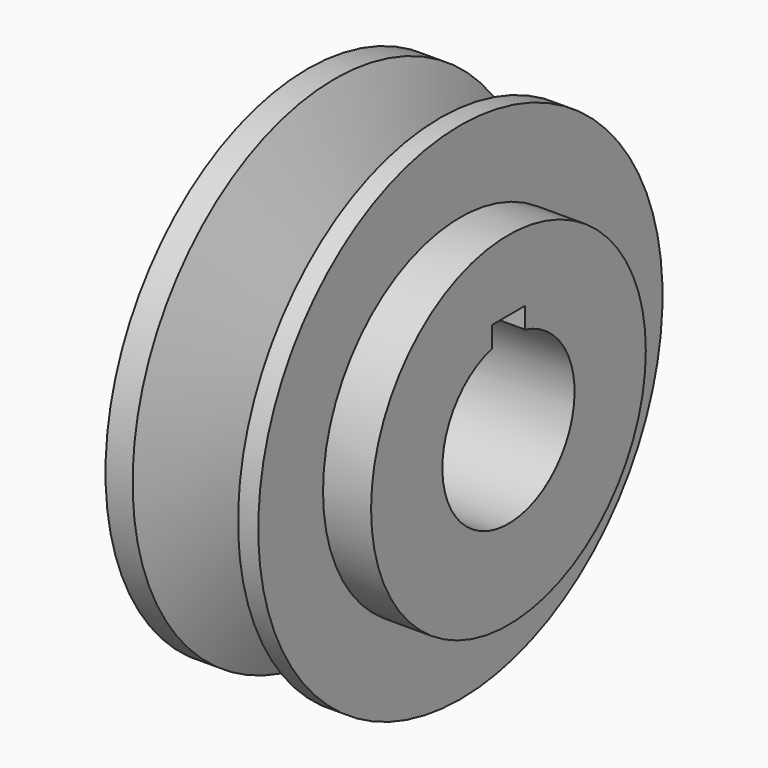
from build123d import *

# Parameters (mm, degrees)
F2_R     = 19.8501
F3_DEPTH = 5.55625
F5_DEPTH = 254


with BuildPart() as f1:
    # F0 (on Front) → F1 (revolve)
    with BuildSketch(Plane.XZ):
        Polygon((0.150096, 0), (0, 0), (-3.29596, 0), (-7.690672, 12.7), (-10.826997, 12.7), (-10.826997, 9.985023), (-8.93062, 9.985023), (-6.797195, 0), (-6.797195, -4.826381), (-6.797195, -16.51), (6.833015, -16.51), (6.833015, 12.7), (4.501328, 12.7), align=None)
    revolve(axis=Axis((0.01791, 0, -16.51), (1, 0, 0)))

    # F2 (on face) → F3 (join)
    with BuildSketch(Plane.YZ.offset(6.833015)):
        with Locations((0, -16.51)):
            Circle(F2_R)
    extrude(amount=F3_DEPTH)

    # F4 (on face) → F5 (cut)
    with BuildSketch(Plane.YZ.offset(12.389265)):
        with BuildLine():
            Line((-2.39395, -4.851507), (-2.39395, -7.264507))
            ThreePointArc((-2.39395, -7.264507), (0, -26.0604), (2.39395, -7.264507))
            Line((2.39395, -7.264507), (2.39395, -4.851507))
            Line((2.39395, -4.851507), (0, -4.851507))
            Line((0, -4.851507), (-2.39395, -4.851507))
        make_face()
    extrude(amount=-F5_DEPTH, mode=Mode.SUBTRACT)


solid = f1.part
